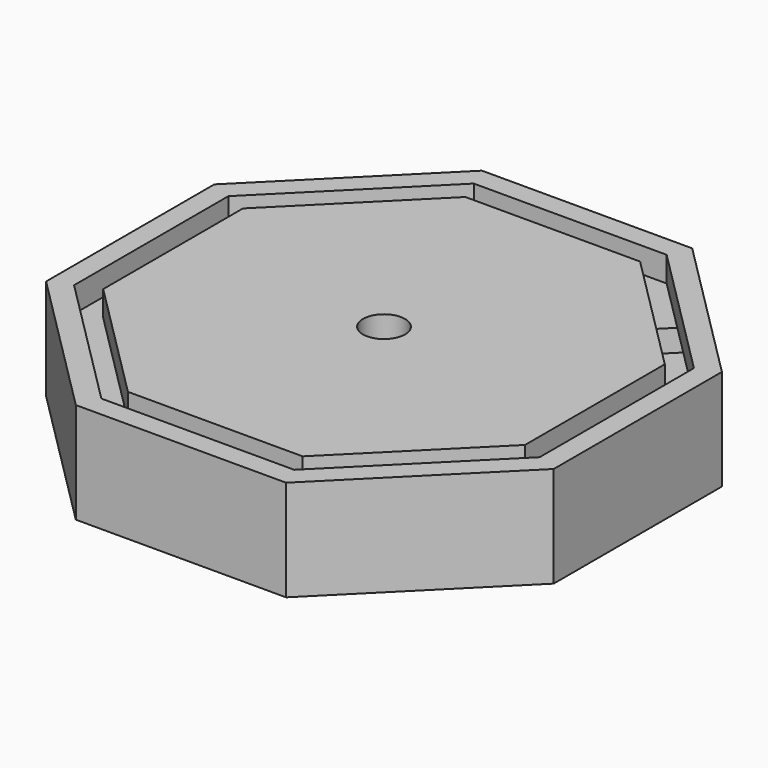
from build123d import *

# Parameters (mm, degrees)
F1_DEPTH = 18
F3_DEPTH = 6
F4_R     = 5
F5_DEPTH = 12
F6_W     = 10
F6_H     = 6
F7_DEPTH = 60


with BuildPart() as f1:
    # F0 (on Top) → F1 (new body)
    with BuildSketch(Plane.XY):
        Polygon((-35.3553390593, 35.3553390593), (0, 0), (25, 0), (25, 120.7106781187), (0, 120.7106781187), (-35.3553390593, 85.3553390593), align=None)
        Polygon((25, 120.7106781187), (25, 0), (50, 0), (85.3553390593, 35.3553390593), (85.3553390593, 85.3553390593), (50, 120.7106781187), align=None)
    extrude(amount=F1_DEPTH)

    # F2 (on face) → F3 (join)
    with BuildSketch(Plane.XY.offset(18)):
        Polygon((-35.3553390593, 85.3553390593), (-35.3553390593, 35.3553390593), (0, 0), (50, 0), (85.3553390593, 35.3553390593), (85.3553390593, 85.3553390593), (50, 120.7106781187), (0, 120.7106781187), align=None)
        Polygon((2.0710678119, 5), (-30.3553390593, 37.4264068712), (-30.3553390593, 83.2842712475), (2.0710678119, 115.7106781187), (47.9289321881, 115.7106781187), (80.3553390593, 83.2842712475), (80.3553390593, 37.4264068712), (47.9289321881, 5), align=None, mode=Mode.SUBTRACT)
        Polygon((-25.1553390593, 81.1303607231), (-25.1553390593, 39.5803173955), (4.2249783362, 10.2), (45.7750216638, 10.2), (75.1553390593, 39.5803173955), (75.1553390593, 81.1303607231), (45.7750216638, 110.5106781187), (4.2249783362, 110.5106781187), align=None)
    extrude(amount=F3_DEPTH)

    # F4 (on face) → F5 (cut)
    with BuildSketch(Plane.XY.offset(24)):
        with Locations((25, 60.3553390593)):
            Circle(F4_R)
    extrude(amount=-F5_DEPTH, mode=Mode.SUBTRACT)

    # F6 (on face) → F7 (cut)
    with BuildSketch(Plane(origin=(85.3553390593, 85.3553390593, 0), x_dir=(-0.7071067812, 0.7071067812, 0), z_dir=(0.7071067812, 0.7071067812, 0))):
        with Locations((25, 15)):
            Rectangle(F6_W, F6_H)
    extrude(amount=-F7_DEPTH, mode=Mode.SUBTRACT)


solid = f1.part
